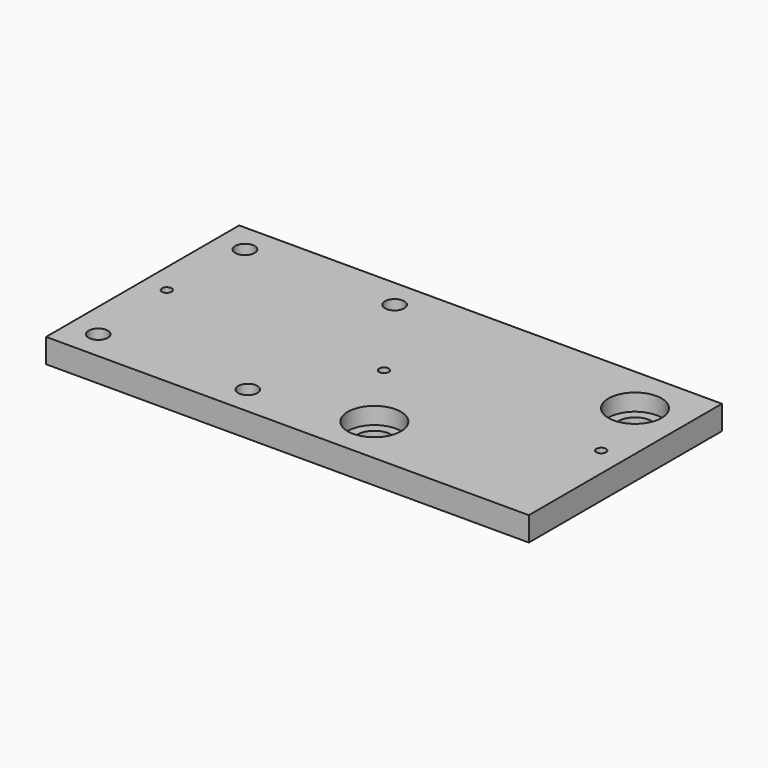
from build123d import *

# Parameters (mm, degrees)
F0_W     = 200
F0_H     = 100
F0_R     = 4
F0_R_2   = 11
F0_R_3   = 2
F1_DEPTH = 10
F0_R_4   = 7
F2_DEPTH = 3


with BuildPart() as f1:
    # F0 (on Top) → F1 (new body)
    with BuildSketch(Plane.XY):
        with Locations((-36.014734, 12.836266)):
            Rectangle(F0_W, F0_H)
        with Locations((-124.00907, -25.163734)):
            Circle(F0_R, mode=Mode.SUBTRACT)
        with Locations((-62.014734, -25.163734)):
            Circle(F0_R, mode=Mode.SUBTRACT)
        with Locations((-16.014734, -17.163734)):
            Circle(F0_R_2, mode=Mode.SUBTRACT)
        with Locations((-126.014734, 12.836266)):
            Circle(F0_R_3, mode=Mode.SUBTRACT)
        with Locations((-124.014734, 50.836266)):
            Circle(F0_R, mode=Mode.SUBTRACT)
        with Locations((-62.014734, 50.836266)):
            Circle(F0_R, mode=Mode.SUBTRACT)
        with Locations((-36.014734, 12.836266)):
            Circle(F0_R_3, mode=Mode.SUBTRACT)
        with Locations((53.985266, 12.836266)):
            Circle(F0_R_3, mode=Mode.SUBTRACT)
        with Locations((43.985266, 42.836266)):
            Circle(F0_R_2, mode=Mode.SUBTRACT)
    extrude(amount=F1_DEPTH)

    # F0 (on Top) → F2 (join)
    with BuildSketch(Plane.XY):
        with Locations((-16.014734, -17.163734)):
            Circle(F0_R_2)
        with Locations((-16.014734, -17.163734)):
            Circle(F0_R_4, mode=Mode.SUBTRACT)
        with Locations((43.985266, 42.836266)):
            Circle(F0_R_2)
        with Locations((43.985266, 42.836266)):
            Circle(F0_R_4, mode=Mode.SUBTRACT)
    extrude(amount=F2_DEPTH)


solid = f1.part
